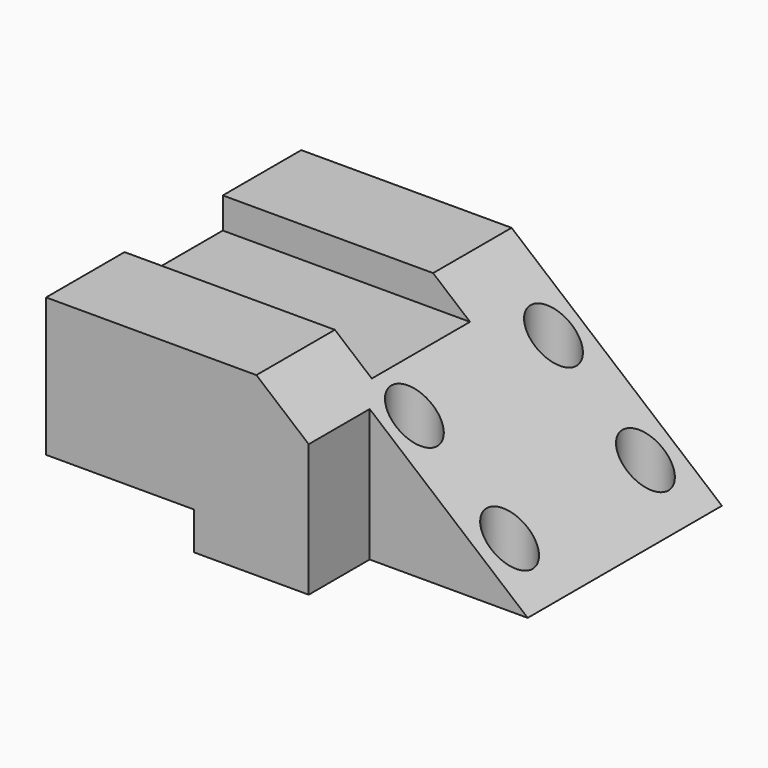
from build123d import *

# Parameters (mm, degrees)
F0_W      = 116.327592
F0_H      = 88.219724
F1_DEPTH  = 48.768
F3_DEPTH  = 93.218
F5_DEPTH  = 21.082
F6_W      = 40.909464
F6_H      = 10.436087
F7_DEPTH  = 91.694
F8_W      = 33.952072
F8_H      = 17.108554
F9_DEPTH  = 78.486
F10_R     = 6.352216
F11_DEPTH = 58.928


with BuildPart() as f1:
    # F0 (on Top) → F1 (new body)
    with BuildSketch(Plane.XY):
        Rectangle(F0_W, F0_H)
    extrude(amount=F1_DEPTH)

    # F2 (on face) → F3 (cut)
    with BuildSketch(Plane.XZ.offset(44.109862)):
        Polygon((58.163796, 0), (58.163796, 48.768), (0, 48.768), align=None)
    extrude(amount=-F3_DEPTH, mode=Mode.SUBTRACT)

    # F4 (on face) → F5 (cut)
    with BuildSketch(Plane.XZ.offset(44.109862)):
        Polygon((58.163796, 0), (14.46391, 36.640594), (14.46391, 0), align=None)
    extrude(amount=-F5_DEPTH, mode=Mode.SUBTRACT)

    # F6 (on face) → F7 (cut)
    with BuildSketch(Plane.XZ.offset(44.109862)):
        with Locations((-37.709064, 5.218043)):
            Rectangle(F6_W, F6_H)
    extrude(amount=-F7_DEPTH, mode=Mode.SUBTRACT)

    # F8 (on face) → F9 (cut)
    with BuildSketch(Plane(origin=(-58.163796, 0, 0), x_dir=(0, -1, 0), z_dir=(-1, 0, 0))):
        with Locations((0, 48.768)):
            Rectangle(F8_W, F8_H)
    extrude(amount=-F9_DEPTH, mode=Mode.SUBTRACT)

    # F10 (on face) → F11 (cut)
    with BuildSketch(Plane(origin=(0, 0, 0), x_dir=(1, 0, 0), z_dir=(0, 0, -1))):
        with Locations((45.083895, 12.940748)):
            Circle(F10_R)
        with Locations((19.2024, 13.49734)):
            Circle(F10_R)
        with Locations((45.083895, -34.022748)):
            Circle(F10_R)
        with Locations((19.2024, -34.57934)):
            Circle(F10_R)
    extrude(amount=-F11_DEPTH, mode=Mode.SUBTRACT)


solid = f1.part
